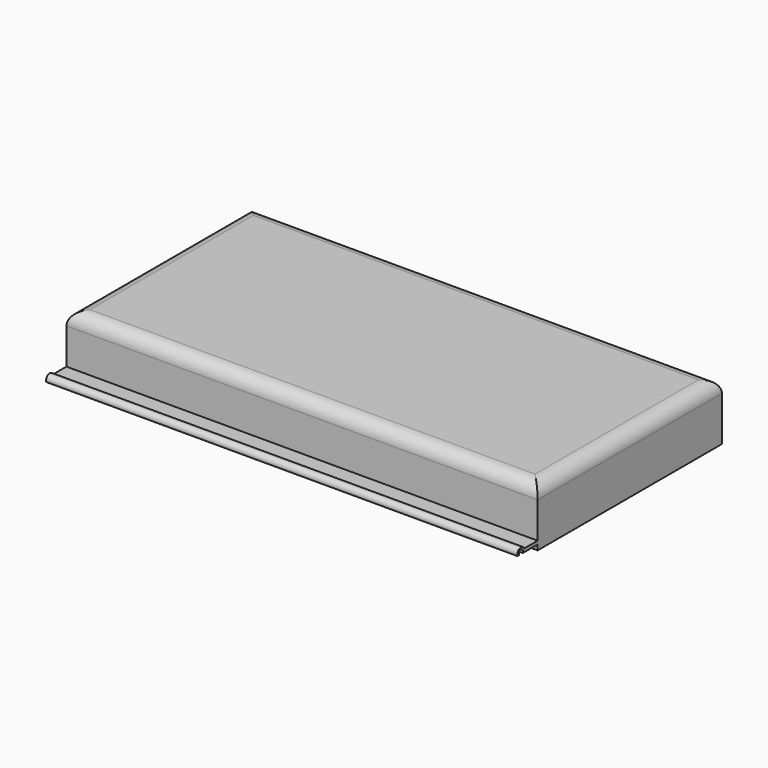
from build123d import *

# Parameters (mm, degrees)
F0_W           = 180
F0_H           = 88
F1_DEPTH       = 20
F1_DEPTH_BACK  = 2
F2_R           = 5
F3_T           = -1.5
F4_W           = 6.8738348782
F4_H           = 1.2783666607
F5_DEPTH       = 90
F5_DEPTH_BACK  = 90
F6_R           = 1.75
F6_R_2         = 1
F7_DEPTH       = 90
F7_DEPTH_BACK  = 90
F8_W           = 5.3282827139
F8_H           = 1.7101019621
F9_DEPTH       = 90
F9_DEPTH_BACK  = 90
F10_DEPTH      = 80
F10_DEPTH_BACK = 80
F11_W          = 0.6596548483
F11_H          = 17.3489500303
F11_W_2        = 0.7256204262
F11_H_2        = 17.4149160739
F12_DEPTH      = 55.1
F13_DEPTH      = 4.3
F15_DEPTH      = 11.43
F15_DEPTH_BACK = 10.21


with BuildPart() as f1:
    # F0 (on Top) → F1 (new body, two sides)
    with BuildSketch(Plane.XY) as f1_sk:
        Rectangle(F0_W, F0_H)
    extrude(amount=F1_DEPTH)
    extrude(f1_sk.sketch, amount=-F1_DEPTH_BACK)

    # F2
    f2_edges = [f1.edges().sort_by_distance(p)[0] for p in [
        (0, -44, 20),
        (90, 0, 20),
        (0, 44, 20),
        (-90, 0, 20),
    ]]
    fillet(f2_edges, radius=F2_R)

    # F3
    f3_openings = [f1.faces().sort_by_distance(p)[0] for p in [
        (0, 0, -2),
    ]]
    offset(amount=F3_T, openings=f3_openings)

    # F4 (on Right) → F5 (join, two sides)
    with BuildSketch(Plane.YZ) as f5_sk:
        with Locations((-47.1954066306, 0.6391833303)):
            Rectangle(F4_W, F4_H)
    extrude(amount=F5_DEPTH)
    extrude(f5_sk.sketch, amount=-F5_DEPTH_BACK)

    # F6 (on Right) → F7 (join, two sides)
    with BuildSketch(Plane.YZ) as f7_sk:
        with Locations((-51.9656985998, 0.5429131561)):
            Circle(F6_R)
        with Locations((-51.9656985998, 0.5429131561)):
            Circle(F6_R_2, mode=Mode.SUBTRACT)
    extrude(amount=F7_DEPTH)
    extrude(f7_sk.sketch, amount=-F7_DEPTH_BACK)

    # F8 (on Right) → F9 (cut, two sides)
    with BuildSketch(Plane.YZ) as f9_sk:
        with Locations((-52.9466792941, -0.855050981)):
            Rectangle(F8_W, F8_H)
    extrude(amount=F9_DEPTH, mode=Mode.SUBTRACT)
    extrude(f9_sk.sketch, amount=-F9_DEPTH_BACK, mode=Mode.SUBTRACT)

    # F8 (on Right) → F10 (cut, two sides)
    with BuildSketch(Plane.YZ) as f10_sk:
        with Locations((-52.9466792941, -0.855050981)):
            Rectangle(F8_W, F8_H)
    extrude(amount=-F10_DEPTH, mode=Mode.SUBTRACT)
    extrude(f10_sk.sketch, amount=F10_DEPTH_BACK, mode=Mode.SUBTRACT)

    # F11 (on Front) → F12 (cut)
    with BuildSketch(Plane.XZ):
        with Locations((11.7518459447, 4.9456743291)):
            Rectangle(F11_W, F11_H)
        with Locations((-10.5775059201, 4.9126913073)):
            Rectangle(F11_W_2, F11_H_2)
    extrude(amount=-F12_DEPTH, mode=Mode.SUBTRACT)

    # F13 (add): a face of the model
    f13_faces = [f1.faces().sort_by_distance(p)[0] for p in [
        (0.6036614068, 43.25, -2),
    ]]
    extrude(f13_faces, amount=F13_DEPTH)

    # F14 (on Right) → F15 (join, two sides)
    with BuildSketch(Plane.YZ) as f15_sk:
        Polygon((43.986722827, -6.3001378439), (44.0000370145, -6.2996791676), (44.851500541, -5.855040258), (44.851500541, -5.530836992), (43.986722827, -5.530836992), align=None)
    extrude(amount=F15_DEPTH)
    extrude(f15_sk.sketch, amount=-F15_DEPTH_BACK)


solid = f1.part
